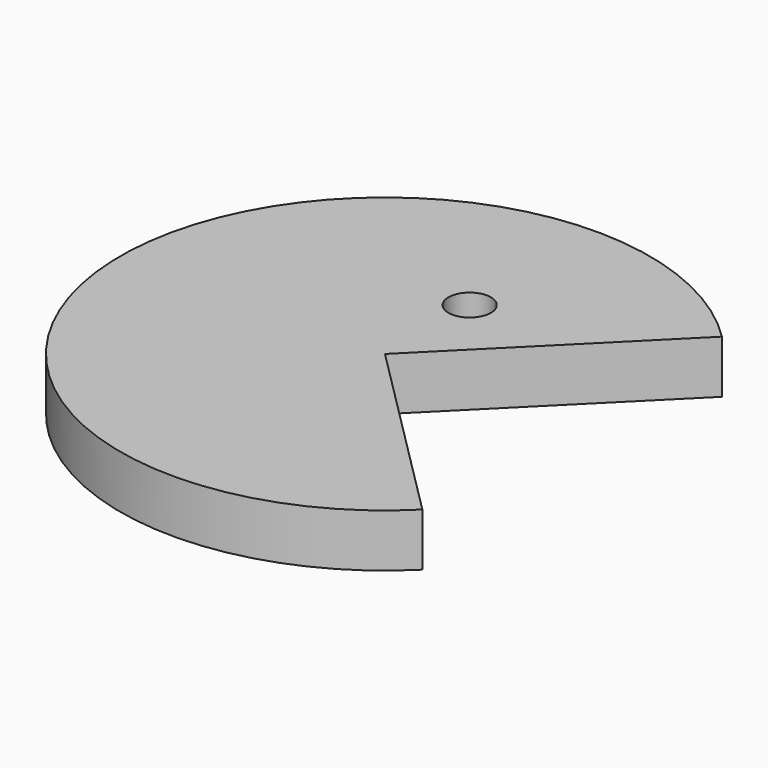
from build123d import *

# Parameters (mm, degrees)
CYLINDER001_R            = 2
CYLINDER001_DEPTH        = 10
CYLINDER_W               = 25
CYLINDER_H               = 5
CYLINDER_ANGLE           = 270
CYLINDER_PLACEMENT_ANGLE = 45


with BuildPart() as cylinder001:
    # Cylinder001 → Cylinder001 (new body)
    with BuildSketch(Plane(origin=(0, 10, -4), x_dir=(1, 0, 0), z_dir=(0, 0, 1))):
        Circle(CYLINDER001_R)
    extrude(amount=CYLINDER001_DEPTH)


with BuildPart() as cut:
    # Cylinder → Cylinder (revolve)
    with BuildSketch(Plane.XZ):
        with Locations((12.5, 2.5)):
            Rectangle(CYLINDER_W, CYLINDER_H)
    revolve(axis=Axis((0, 0, 0), (0, 0, 1)), revolution_arc=CYLINDER_ANGLE)


with BuildPart() as cut_1:
    # Cylinder placement: moved
    add(cut.part.moved(Location((0, 0, -2))).rotate(Axis((0, 0, -2), (0, 0, 1)), CYLINDER_PLACEMENT_ANGLE))

    # Cut: cut Cylinder001
    add(cylinder001.part, mode=Mode.SUBTRACT)


solid = cut_1.part
